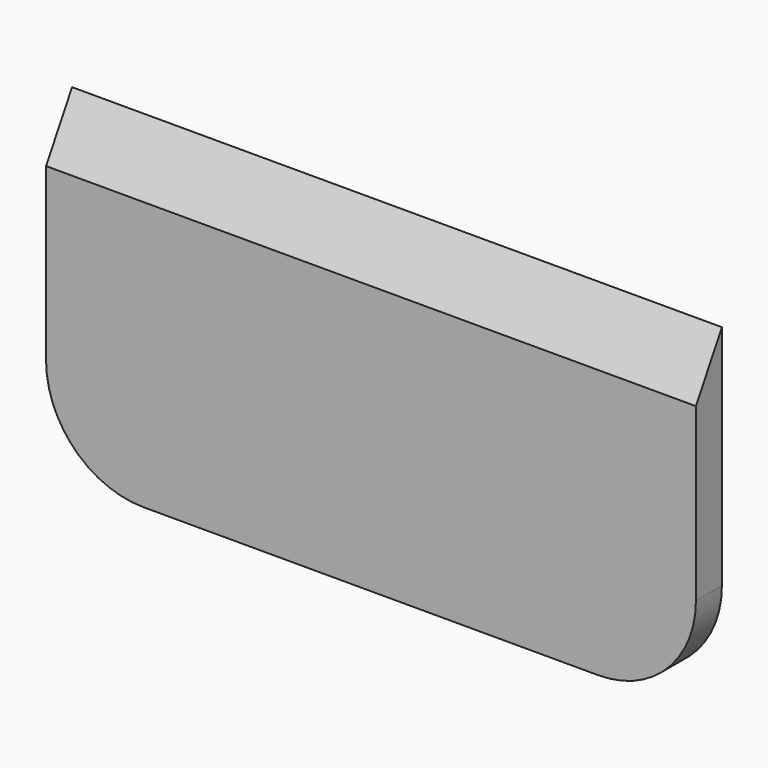
from build123d import *

# Parameters (mm, degrees)
F1_DEPTH = 127
F3_DEPTH = 7.366


with BuildPart() as f1:
    # F0 (on Right) → F1 (new body)
    with BuildSketch(Plane.YZ):
        Polygon((0, -63.5), (0, 0), (-6.35, -10.998523), (-6.35, -63.5), align=None)
    extrude(amount=F1_DEPTH)

    # F2 (on Front) → F3 (cut)
    with BuildSketch(Plane.XZ):
        with BuildLine():
            Line((0, -44.45), (0, -33.842908))
            Line((0, -33.842908), (-28.897969, -33.245133))
            Line((-28.897969, -33.245133), (-28.897969, -77.647364))
            Line((-28.897969, -77.647364), (46.444243, -77.647364))
            Line((46.444243, -77.647364), (44.850173, -63.5))
            Line((44.850173, -63.5), (19.05, -63.5))
            ThreePointArc((19.05, -63.5), (5.579616, -57.920384), (0, -44.45))
        make_face()
        with BuildLine():
            Line((143.538471, -31.044858), (127, -30.048563))
            Line((127, -30.048563), (127, -44.45))
            ThreePointArc((127, -44.45), (121.420384, -57.920384), (107.95, -63.5))
            Line((107.95, -63.5), (99.701572, -63.5))
            Line((99.701572, -63.5), (99.701572, -83.425855))
            Line((99.701572, -83.425855), (143.538471, -83.425855))
            Line((143.538471, -83.425855), (143.538471, -31.044858))
        make_face()
    extrude(amount=F3_DEPTH, mode=Mode.SUBTRACT)


solid = f1.part
